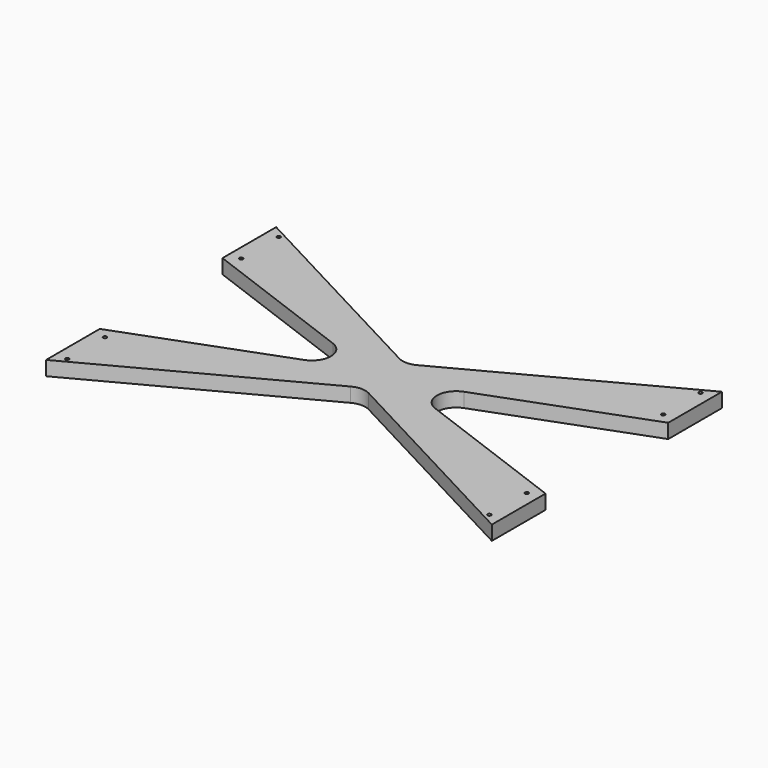
from build123d import *

# Parameters (mm, degrees)
F0_R     = 2.38125
F1_DEPTH = 19.05


with BuildPart() as f1:
    # F0 (on Top) → F1 (new body)
    with BuildSketch(Plane.XY):
        with BuildLine():
            Line((-11.900914, 40.210537), (-295.275, 190.5))
            Line((-295.275, 190.5), (-295.275, 101.6))
            Line((-295.275, 101.6), (-86.781921, 23.797064))
            ThreePointArc((-86.781921, 23.797064), (-70.262223, 0), (-86.781921, -23.797064))
            Line((-86.781921, -23.797064), (-295.275, -101.6))
            Line((-295.275, -101.6), (-295.275, -190.5))
            Line((-295.275, -190.5), (-11.900914, -40.210537))
            ThreePointArc((-11.900914, -40.210537), (0, -37.249972), (11.900914, -40.210537))
            Line((11.900914, -40.210537), (295.275, -190.5))
            Line((295.275, -190.5), (295.275, -101.6))
            Line((295.275, -101.6), (86.781921, -23.797064))
            ThreePointArc((86.781921, -23.797064), (70.262223, 0), (86.781921, 23.797064))
            Line((86.781921, 23.797064), (295.275, 101.6))
            Line((295.275, 101.6), (295.275, 190.5))
            Line((295.275, 190.5), (11.900914, 40.210537))
            ThreePointArc((11.900914, 40.210537), (0, 37.249972), (-11.900914, 40.210537))
        make_face()
        with Locations((-279.513239, -174.996868)):
            Circle(F0_R, mode=Mode.SUBTRACT)
        with Locations((-279.513239, -112.790397)):
            Circle(F0_R, mode=Mode.SUBTRACT)
        with Locations((279.513239, -174.996868)):
            Circle(F0_R, mode=Mode.SUBTRACT)
        with Locations((279.513239, -112.790397)):
            Circle(F0_R, mode=Mode.SUBTRACT)
        with Locations((-279.513239, 112.790397)):
            Circle(F0_R, mode=Mode.SUBTRACT)
        with Locations((-279.513239, 174.996868)):
            Circle(F0_R, mode=Mode.SUBTRACT)
        with Locations((279.513239, 112.790397)):
            Circle(F0_R, mode=Mode.SUBTRACT)
        with Locations((279.513239, 174.996868)):
            Circle(F0_R, mode=Mode.SUBTRACT)
    extrude(amount=F1_DEPTH)


solid = f1.part
